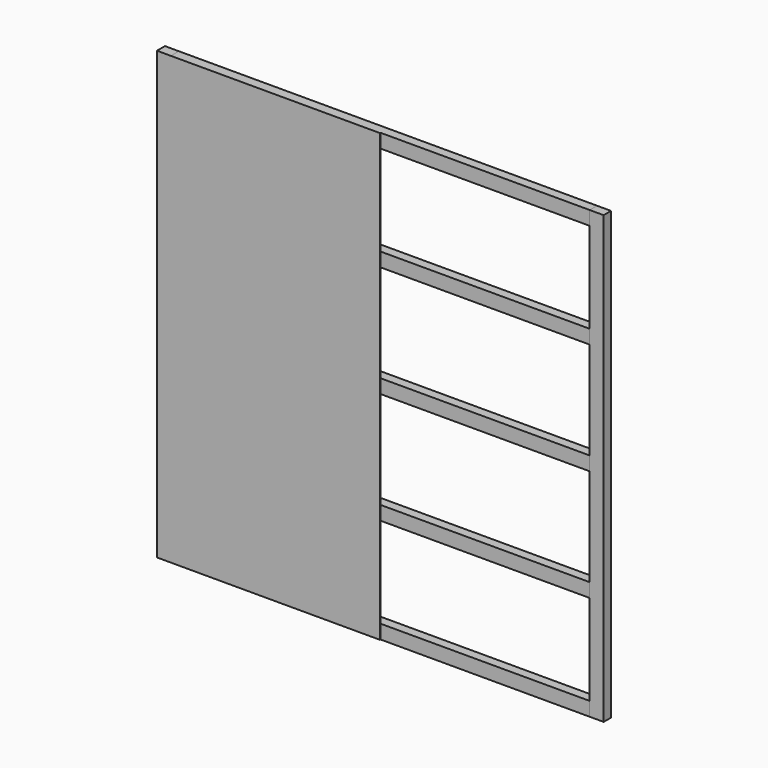
from build123d import *

# Parameters (mm, degrees)
SKETCH_W                   = 1220
SKETCH_H                   = 2440
PAD_DEPTH                  = 4
SKETCH001_W                = 50.8
SKETCH001_H                = 76.2
EXTRUDE_DEPTH              = 1143.8
EXTRUDE_ROLL_ANGLE         = -90
EXTRUDE_PLACEMENT_ANGLE    = 90
EXTRUDE001_DEPTH           = 1143.8
EXTRUDE001_ROLL_ANGLE      = -90
EXTRUDE001_PLACEMENT_ANGLE = 90
EXTRUDE002_DEPTH           = 1143.8
EXTRUDE002_ROLL_ANGLE      = -90
EXTRUDE002_PLACEMENT_ANGLE = 90
EXTRUDE003_DEPTH           = 1143.8
EXTRUDE003_ROLL_ANGLE      = -90
EXTRUDE003_PLACEMENT_ANGLE = 90
EXTRUDE004_DEPTH           = 1143.8
EXTRUDE004_ROLL_ANGLE      = -90
EXTRUDE004_PLACEMENT_ANGLE = 90
EXTRUDE005_DEPTH           = 1220
EXTRUDE005_PLACEMENT_ANGLE = 90
EXTRUDE006_DEPTH           = 1220
EXTRUDE006_PLACEMENT_ANGLE = 90


with BuildPart() as panel_left:
    # Sketch → Pad (new body)
    with BuildSketch(Plane.XZ):
        with Locations((610, 0)):
            Rectangle(SKETCH_W, SKETCH_H)
    extrude(amount=PAD_DEPTH)


with BuildPart() as panel_right:
    # Part__Mirroring: instance of panel_left
    add(panel_left.part.mirror(Plane(origin=(0, 0, 0), x_dir=(0, -1, 0), z_dir=(1, 0, 0))))


with BuildPart() as horizontal_post_mid:
    # Sketch001 → Extrude (new body, symmetric)
    with BuildSketch(Plane.XY):
        Rectangle(SKETCH001_W, SKETCH001_H)
    extrude(amount=EXTRUDE_DEPTH, both=True)


with BuildPart() as horizontal_post_mid_1:
    # Extrude roll: moved
    add(horizontal_post_mid.part.rotate(Axis((0, 0, 0), (1, 0, 0)), EXTRUDE_ROLL_ANGLE))


with BuildPart() as horizontal_post_mid_2:
    # Extrude placement: moved
    add(horizontal_post_mid_1.part.moved(Location((0, 25.4, 0))).rotate(Axis((0, 25.4, 0), (0, 0, 1)), EXTRUDE_PLACEMENT_ANGLE))


with BuildPart() as horizontal_post_mid_top:
    # Sketch001 → Extrude001 (new body, symmetric)
    with BuildSketch(Plane.XY):
        Rectangle(SKETCH001_W, SKETCH001_H)
    extrude(amount=EXTRUDE001_DEPTH, both=True)


with BuildPart() as horizontal_post_mid_top_1:
    # Extrude001 roll: moved
    add(horizontal_post_mid_top.part.rotate(Axis((0, 0, 0), (1, 0, 0)), EXTRUDE001_ROLL_ANGLE))


with BuildPart() as horizontal_post_mid_top_2:
    # Extrude001 placement: moved
    add(horizontal_post_mid_top_1.part.moved(Location((0, 25.4, 610))).rotate(Axis((0, 25.4, 610), (0, 0, 1)), EXTRUDE001_PLACEMENT_ANGLE))


with BuildPart() as horizontal_post_top:
    # Sketch001 → Extrude002 (new body, symmetric)
    with BuildSketch(Plane.XY):
        Rectangle(SKETCH001_W, SKETCH001_H)
    extrude(amount=EXTRUDE002_DEPTH, both=True)


with BuildPart() as horizontal_post_top_1:
    # Extrude002 roll: moved
    add(horizontal_post_top.part.rotate(Axis((0, 0, 0), (1, 0, 0)), EXTRUDE002_ROLL_ANGLE))


with BuildPart() as horizontal_post_top_2:
    # Extrude002 placement: moved
    add(horizontal_post_top_1.part.moved(Location((0, 25.4, 1181.9))).rotate(Axis((0, 25.4, 1181.9), (0, 0, 1)), EXTRUDE002_PLACEMENT_ANGLE))


with BuildPart() as horizontal_post_mid_bottom:
    # Sketch001 → Extrude003 (new body, symmetric)
    with BuildSketch(Plane.XY):
        Rectangle(SKETCH001_W, SKETCH001_H)
    extrude(amount=EXTRUDE003_DEPTH, both=True)


with BuildPart() as horizontal_post_mid_bottom_1:
    # Extrude003 roll: moved
    add(horizontal_post_mid_bottom.part.rotate(Axis((0, 0, 0), (1, 0, 0)), EXTRUDE003_ROLL_ANGLE))


with BuildPart() as horizontal_post_mid_bottom_2:
    # Extrude003 placement: moved
    add(horizontal_post_mid_bottom_1.part.moved(Location((0, 25.4, -610))).rotate(Axis((0, 25.4, -610), (0, 0, 1)), EXTRUDE003_PLACEMENT_ANGLE))


with BuildPart() as horizontal_post_bottom:
    # Sketch001 → Extrude004 (new body, symmetric)
    with BuildSketch(Plane.XY):
        Rectangle(SKETCH001_W, SKETCH001_H)
    extrude(amount=EXTRUDE004_DEPTH, both=True)


with BuildPart() as horizontal_post_bottom_1:
    # Extrude004 roll: moved
    add(horizontal_post_bottom.part.rotate(Axis((0, 0, 0), (1, 0, 0)), EXTRUDE004_ROLL_ANGLE))


with BuildPart() as horizontal_post_bottom_2:
    # Extrude004 placement: moved
    add(horizontal_post_bottom_1.part.moved(Location((0, 25.4, -1181.9))).rotate(Axis((0, 25.4, -1181.9), (0, 0, 1)), EXTRUDE004_PLACEMENT_ANGLE))


with BuildPart() as vertical_post_left:
    # Sketch001 → Extrude005 (new body, symmetric)
    with BuildSketch(Plane.XY):
        Rectangle(SKETCH001_W, SKETCH001_H)
    extrude(amount=EXTRUDE005_DEPTH, both=True)


with BuildPart() as vertical_post_left_1:
    # Extrude005 placement: moved
    add(vertical_post_left.part.moved(Location((1181.9, 25.4, 0))).rotate(Axis((1181.9, 25.4, 0), (0, 0, 1)), EXTRUDE005_PLACEMENT_ANGLE))


with BuildPart() as vertical_post_right:
    # Sketch001 → Extrude006 (new body, symmetric)
    with BuildSketch(Plane.XY):
        Rectangle(SKETCH001_W, SKETCH001_H)
    extrude(amount=EXTRUDE006_DEPTH, both=True)


with BuildPart() as vertical_post_right_1:
    # Extrude006 placement: moved
    add(vertical_post_right.part.moved(Location((-1181.9, 25.4, 0))).rotate(Axis((-1181.9, 25.4, 0), (0, 0, 1)), EXTRUDE006_PLACEMENT_ANGLE))


solid = Compound([panel_right.part, horizontal_post_mid_2.part, horizontal_post_mid_top_2.part, horizontal_post_top_2.part, horizontal_post_mid_bottom_2.part, horizontal_post_bottom_2.part, vertical_post_left_1.part, vertical_post_right_1.part])
